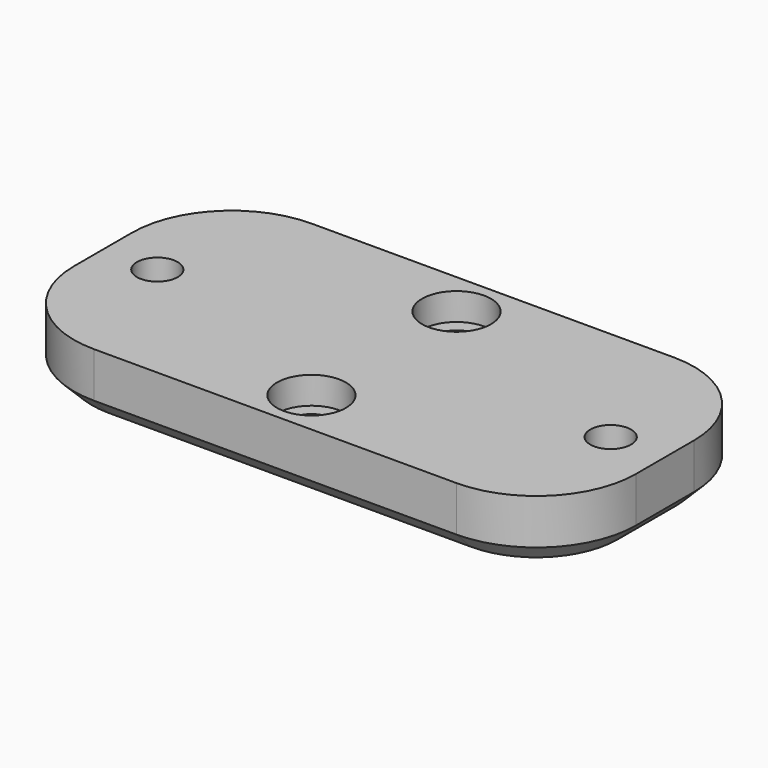
from build123d import *

# Parameters (mm, degrees)
SKETCH_W     = 62
SKETCH_H     = 30
SKETCH_R     = 2.25
PAD_DEPTH    = 7
SKETCH001_R  = 3.8
POCKET_DEPTH = 3
FILLET_R     = 11
CHAMFER_SIZE = 2


with BuildPart() as part:
    # Sketch → Pad (new body)
    with BuildSketch(Plane.XY):
        Rectangle(SKETCH_W, SKETCH_H)
        with Locations((-25, 0)):
            Circle(SKETCH_R, mode=Mode.SUBTRACT)
        with Locations((25, 0)):
            Circle(SKETCH_R, mode=Mode.SUBTRACT)
        with Locations((0, 10)):
            Circle(SKETCH_R, mode=Mode.SUBTRACT)
        with Locations((0, -10)):
            Circle(SKETCH_R, mode=Mode.SUBTRACT)
    extrude(amount=PAD_DEPTH)

    # Sketch001 → Pocket (cut)
    with BuildSketch(Plane.XY.offset(7)):
        with Locations((0, 10)):
            Circle(SKETCH001_R)
        with Locations((0, -10)):
            Circle(SKETCH001_R)
    extrude(amount=-POCKET_DEPTH, mode=Mode.SUBTRACT)

    # Fillet
    fillet_edges = [part.edges().sort_by_distance(p)[0] for p in [
        (31, 15, 3.5),
        (-31, 15, 3.5),
        (-31, -15, 3.5),
        (31, -15, 3.5),
    ]]
    fillet(fillet_edges, radius=FILLET_R)

    # Chamfer
    chamfer_edges = [part.edges().sort_by_distance(p)[0] for p in [
        (0, 15, 0),
    ]]
    chamfer(chamfer_edges, length=CHAMFER_SIZE)


solid = part.part
